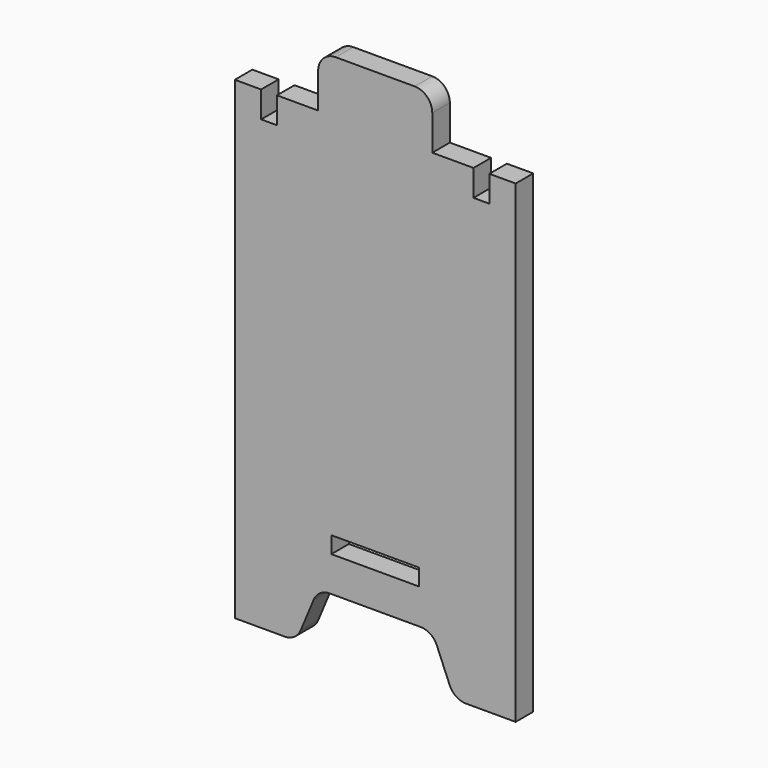
from build123d import *

# Parameters (mm, degrees)
F0_W     = 320
F0_H     = 600
F1_DEPTH = 25
F2_W     = 100
F2_H     = 19
F2_W_2   = 18
F2_H_2   = 30
F3_DEPTH = 25


with BuildPart() as f1:
    # F0 (on Front) → F1 (new body)
    with BuildSketch(Plane.XZ):
        Rectangle(F0_W, F0_H)
    extrude(amount=F1_DEPTH)

    # F2 (on face) → F3 (cut, through all)
    with BuildSketch(Plane.XZ.offset(25)):
        with BuildLine():
            Line((-160, 300), (-160, 240))
            Line((-160, 240), (-130, 240))
            Line((-130, 240), (-112, 240))
            Line((-112, 240), (-85, 240))
            Line((-85, 240), (-65, 240))
            Line((-65, 240), (-65, 260))
            Line((-65, 260), (-65, 280))
            ThreePointArc((-65, 280), (-59.142136, 294.142136), (-45, 300))
            Line((-45, 300), (-160, 300))
        make_face()
        with BuildLine():
            Line((130, 240), (160, 240))
            Line((160, 240), (160, 300))
            Line((160, 300), (45, 300))
            ThreePointArc((45, 300), (59.142136, 294.142136), (65, 280))
            Line((65, 280), (65, 260))
            Line((65, 260), (65, 240))
            Line((65, 240), (85, 240))
            Line((85, 240), (112, 240))
            Line((112, 240), (130, 240))
        make_face()
        with BuildLine():
            Line((-70.128205, -252.307692), (-84.871795, -287.692308))
            ThreePointArc((-84.871795, -287.692308), (-92.239329, -296.641006), (-103.333333, -300))
            Line((-103.333333, -300), (103.333333, -300))
            ThreePointArc((103.333333, -300), (92.239329, -296.641006), (84.871795, -287.692308))
            Line((84.871795, -287.692308), (70.128205, -252.307692))
            ThreePointArc((70.128205, -252.307692), (62.760671, -243.358994), (51.666667, -240))
            Line((51.666667, -240), (-51.666667, -240))
            ThreePointArc((-51.666667, -240), (-62.760671, -243.358994), (-70.128205, -252.307692))
        make_face()
        with Locations((0, -190.5)):
            Rectangle(F2_W, F2_H)
        with Locations((-121, 225)):
            Rectangle(F2_W_2, F2_H_2)
        with Locations((121, 225)):
            Rectangle(F2_W_2, F2_H_2)
    extrude(amount=-F3_DEPTH, mode=Mode.SUBTRACT)


solid = f1.part
